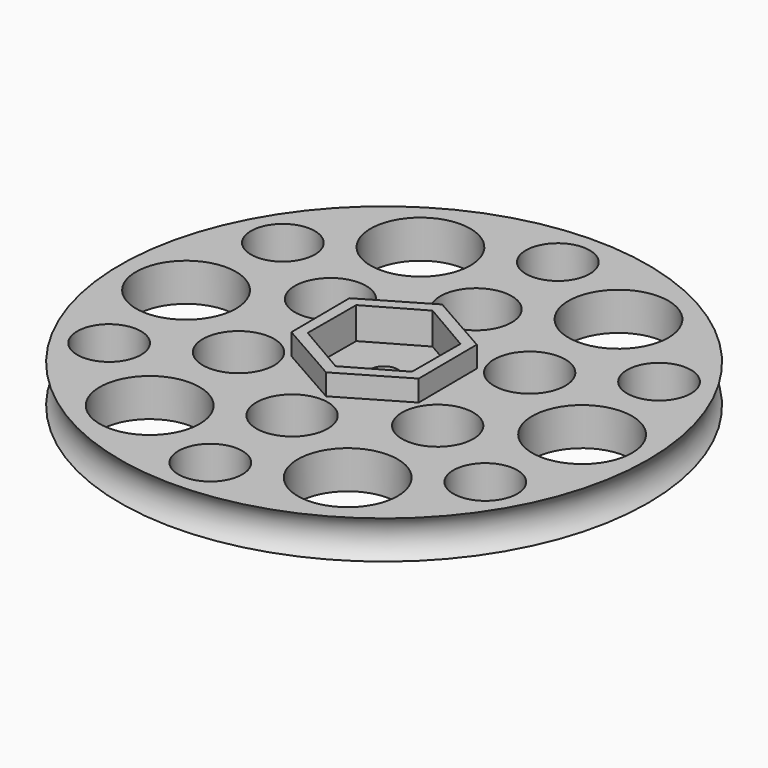
from build123d import *

# Parameters (mm, degrees)
F3_DEPTH = 2.54
F4_R     = 6.006136
F4_R_2   = 4.291362
F4_R_3   = 3.841772
F5_DEPTH = 25.4
F7_DEPTH = 3.81
F8_R     = 1.651
F9_DEPTH = 25.4


with BuildPart() as f1:
    # F0 (on Front) → F1 (revolve)
    with BuildSketch(Plane.XZ):
        with BuildLine():
            Line((0, 4.572), (0, 0))
            Line((0, 0), (31.75, 0))
            ThreePointArc((31.75, 0), (30.718062, 2.286), (31.75, 4.572))
            Line((31.75, 4.572), (0, 4.572))
        make_face()
    revolve(axis=Axis((0, 0, 2.286), (0, 0, 1)))

    # F2 (on face) → F3 (join)
    with BuildSketch(Plane.XY.offset(4.572)):
        Polygon((-0.058218, 8.798626), (-7.648942, 4.348895), (-7.590724, -4.449731), (0.058218, -8.798626), (7.648942, -4.348895), (7.590724, 4.449731), align=None)
    extrude(amount=F3_DEPTH)

    # F4 (on face) → F5 (cut)
    with BuildSketch(Plane.XY.offset(4.572)):
        with Locations((-11.983808, 20.4447)):
            Circle(F4_R)
        with Locations((0, 13.830239)):
            Circle(F4_R_2)
        with Locations((0, 26.124066)):
            Circle(F4_R_3)
        with Locations((11.713726, 20.600633)):
            Circle(F4_R)
        with Locations((11.977333, 6.915986)):
            Circle(F4_R_2)
        with Locations((23.697534, 0.155932)):
            Circle(F4_R)
        with Locations((22.624847, -13.060728)):
            Circle(F4_R_3)
        with Locations((11.97808, -6.913814)):
            Circle(F4_R_2)
        with Locations((11.983808, -20.4447)):
            Circle(F4_R)
        with Locations((0.001496, -26.123189)):
            Circle(F4_R_3)
        with Locations((0.001496, -13.829362)):
            Circle(F4_R_2)
        with Locations((-11.713726, -20.600633)):
            Circle(F4_R)
        with Locations((-11.975837, -6.91511)):
            Circle(F4_R_2)
        with Locations((-23.697534, -0.155932)):
            Circle(F4_R)
        with Locations((-22.623351, 13.061604)):
            Circle(F4_R_3)
        with Locations((-11.976585, 6.914691)):
            Circle(F4_R_2)
        with Locations((-22.622603, -13.062023)):
            Circle(F4_R_3)
        with Locations((22.624099, 13.0629)):
            Circle(F4_R_3)
    extrude(amount=-F5_DEPTH, mode=Mode.SUBTRACT)

    # F6 (on face) → F7 (cut)
    with BuildSketch(Plane.XY.offset(7.112)):
        Polygon((6.300916, 3.604427), (0.028933, 7.258967), (-6.271984, 3.65454), (-6.300916, -3.604427), (-0.028933, -7.258967), (6.271984, -3.65454), align=None)
    extrude(amount=-F7_DEPTH, mode=Mode.SUBTRACT)

    # F8 (on face) → F9 (cut)
    with BuildSketch(Plane.XY.offset(3.302)):
        Circle(F8_R)
    extrude(amount=-F9_DEPTH, mode=Mode.SUBTRACT)


solid = f1.part
